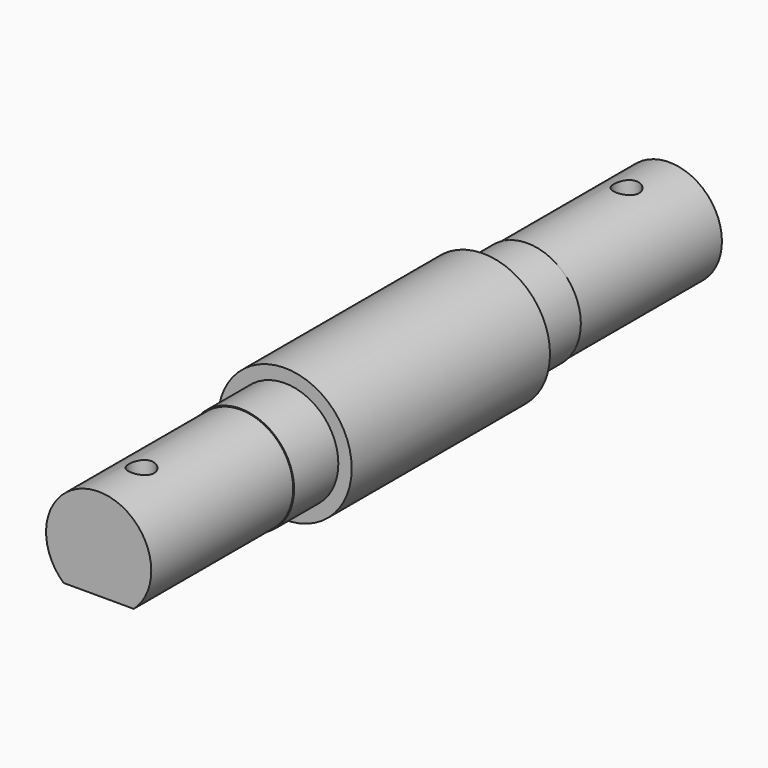
from build123d import *

# Parameters (mm, degrees)
F0_R      = 37.5
F1_DEPTH  = 69.5
F2_R      = 30
F3_DEPTH  = 31
F4_R      = 29.5
F5_DEPTH  = 99.5
F7_DEPTH  = 75
F10_R     = 7
F11_DEPTH = 67.001


with BuildPart() as f1:
    # F0 (on Front) → F1 (new body, symmetric)
    with BuildSketch(Plane.XZ):
        Circle(F0_R)
    extrude(amount=F1_DEPTH, both=True)

    # F2 (on face) → F3 (join)
    with BuildSketch(Plane.XZ.offset(69.5)):
        Circle(F2_R)
    extrude(amount=F3_DEPTH)

    # F4 (on face) → F5 (join)
    with BuildSketch(Plane.XZ.offset(100.5)):
        Circle(F4_R)
    extrude(amount=F5_DEPTH)

    # F6 (on face) → F7 (cut)
    with BuildSketch(Plane.XZ.offset(200)):
        with BuildLine():
            Line((19.653244007, -22), (-19.653244007, -22))
            ThreePointArc((-19.653244007, -22), (0, -29.5), (19.653244007, -22))
        make_face()
    extrude(amount=-F7_DEPTH, mode=Mode.SUBTRACT)

    # F10 (on plane+point) → F11 (cut, through all)
    with BuildSketch(Plane.XY.offset(29.5)):
        with Locations((0, -170)):
            Circle(F10_R)
    extrude(amount=-F11_DEPTH, mode=Mode.SUBTRACT)

    # F12: F1 across plane


with BuildPart() as f1_1:
    add(f1.part)
    add(f1.part.mirror(Plane.XZ))


solid = f1_1.part
